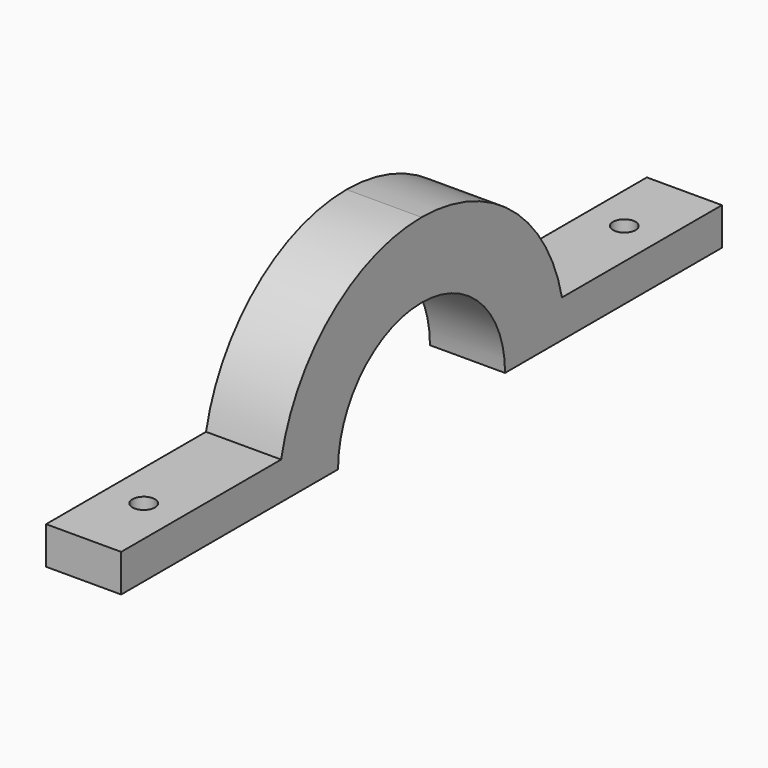
from build123d import *

# Parameters (mm, degrees)
F1_DEPTH = 10
F2_R     = 1.5
F3_DEPTH = 25


with BuildPart() as f1:
    # F0 (on Right) → F1 (new body)
    with BuildSketch(Plane.YZ):
        with BuildLine():
            ThreePointArc((-13.9, 0), (-9.828784, 9.828784), (0, 13.9))
            ThreePointArc((0, 13.9), (9.828784, 9.828784), (13.9, 0))
            Line((13.9, 0), (50, 0))
            Line((50, 0), (50, 5))
            Line((50, 5), (23.371136, 5))
            ThreePointArc((23.371136, 5), (15.028473, 18.583729), (0, 23.9))
            ThreePointArc((0, 23.9), (-15.028473, 18.583729), (-23.371136, 5))
            Line((-23.371136, 5), (-50, 5))
            Line((-50, 5), (-50, 0))
            Line((-50, 0), (-13.9, 0))
        make_face()
    extrude(amount=F1_DEPTH)

    # F2 (on face) → F3 (cut)
    with BuildSketch(Plane.XY.offset(5)):
        with Locations((5, 40)):
            Circle(F2_R)
        with Locations((5, -40)):
            Circle(F2_R)
    extrude(amount=-F3_DEPTH, mode=Mode.SUBTRACT)


solid = f1.part
